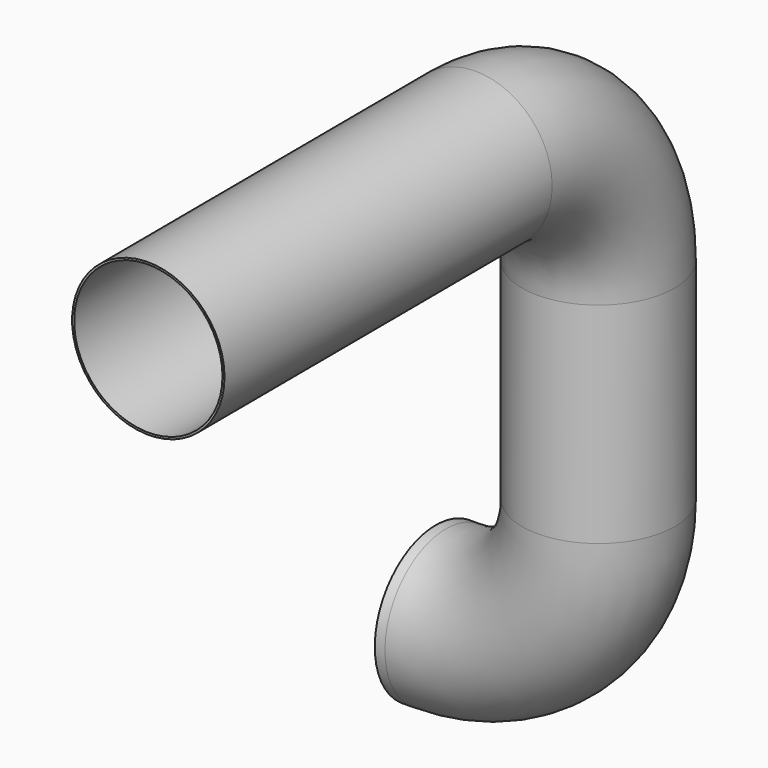
from build123d import *

# Parameters (mm, degrees)
F1_R        = 75
F1_R_2      = 73
F2_FACE_R   = 75
F2_FACE_R_2 = 73


with BuildPart() as f2:
    # F2: sweep along a path in F0
    with BuildLine(Plane.XZ) as f2_path:
        Line((0, 0), (0, -175))
        ThreePointArc((0, -175), (-43.933982822, -281.066017178), (-150, -325))
        Line((-150, -325), (-160, -325))
    # F1 (on Top) → F2 (sweep)
    with BuildSketch(Plane.XY):
        Circle(F1_R)
        Circle(F1_R_2, mode=Mode.SUBTRACT)
    sweep(path=f2_path.line)

    # F4: sweep along a path in F3
    with BuildLine(Plane.YZ) as f4_path:
        Line((0, 0), (0, 31.5842008631))
        ThreePointArc((0, 31.5842008631), (-44.143390319, 137.8592129159), (-150.5917091579, 181.5830337928))
        Line((-150.5917091579, 181.5830337928), (-553.588573629, 179.9933085219))
    # F2_face (on face) → F4 (sweep)
    with BuildSketch(Plane.XY):
        Circle(F2_FACE_R)
        Circle(F2_FACE_R_2, mode=Mode.SUBTRACT)
    sweep(path=f4_path.line)


solid = f2.part
